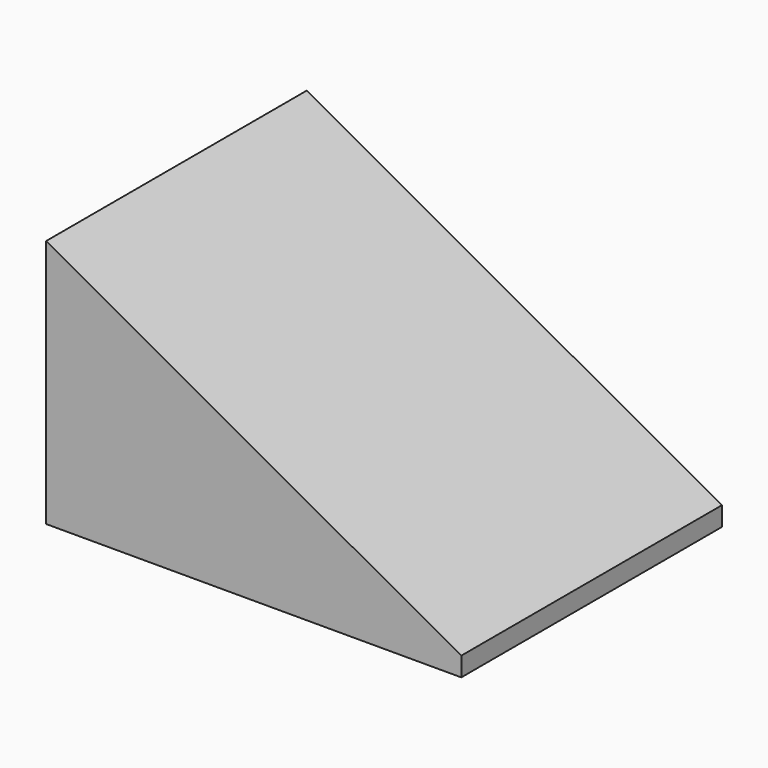
from build123d import *

# Parameters (mm, degrees)
F3_DEPTH = 25.5


with BuildPart() as f3:
    # F2 (on offset) → F3 (new body)
    with BuildSketch(Plane.XZ.offset(12.75)):
        Polygon((-16.25, 0), (16.25, 0), (16.25, 1.5), (-16.25, 19.5), align=None)
    extrude(amount=-F3_DEPTH)


solid = f3.part
